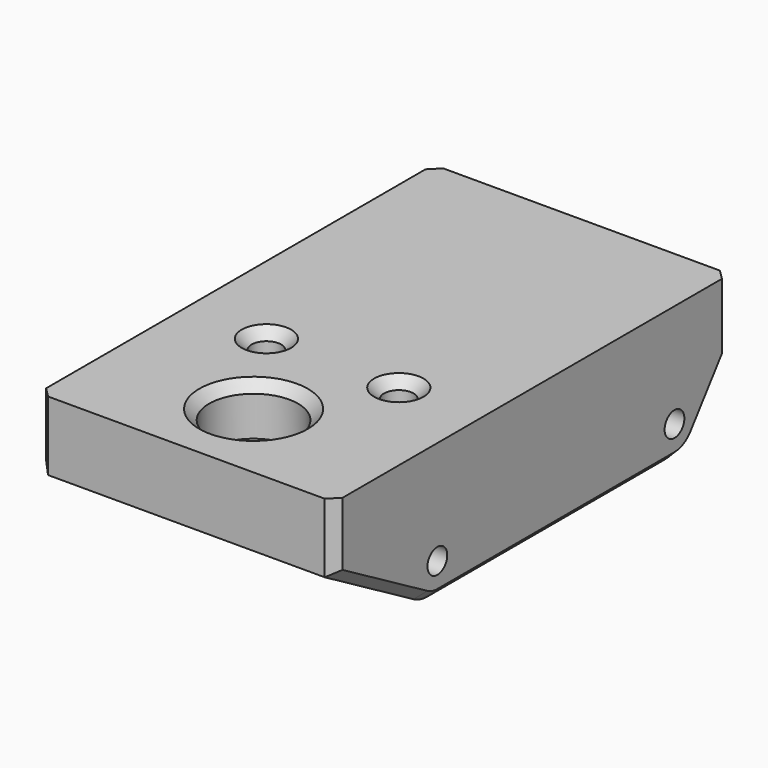
from build123d import *

# Parameters (mm, degrees)
F0_W     = 30
F0_H     = 50
F1_DEPTH = 7
F2_R     = 4.5
F3_DEPTH = 5
F4_R     = 1.5
F5_DEPTH = 7.001
F7_DEPTH = 7
F8_R     = 1.25
F9_DEPTH = 30.001
F10_SIZE = 1


with BuildPart() as f1:
    # F0 (on Top) → F1 (new body)
    with BuildSketch(Plane.XY):
        with Locations((2.6609585285, -2.2089038044)):
            Rectangle(F0_W, F0_H)
    extrude(amount=F1_DEPTH)

    # F2 (on face) → F3 (cut)
    with BuildSketch(Plane.XY.offset(7)):
        with Locations((2.6609585285, -18.7089038044)):
            Circle(F2_R)
    extrude(amount=-F3_DEPTH, mode=Mode.SUBTRACT)

    # F4 (on face) → F5 (cut, through all)
    with BuildSketch(Plane.XY.offset(7)):
        with Locations((9.3609585285, -8.7089038044)):
            Circle(F4_R)
        with Locations((-4.0390414715, -8.7089038044)):
            Circle(F4_R)
    extrude(amount=-F5_DEPTH, mode=Mode.SUBTRACT)

    # F6 (on face) → F7 (join)
    with BuildSketch(Plane(origin=(0, 0, 0), x_dir=(1, 0, 0), z_dir=(0, 0, -1))):
        Polygon((-9.8390414715, 27.2089038044), (-12.3390414715, 27.2089038044), (-12.3390414715, -22.7910961956), (-9.8390414715, -22.7910961956), (-9.8390414715, -19.8687557131), (-9.8390414715, -19.1495772451), align=None)
        Polygon((17.6609585285, 27.2089038044), (15.1609585285, 27.2089038044), (15.1609585285, -19.1495772451), (15.1609585285, -19.8687557131), (15.1609585285, -22.7910961956), (17.6609585285, -22.7910961956), align=None)
    extrude(amount=F7_DEPTH)

    # F8 (on face) → F9 (cut, through all)
    with BuildSketch(Plane(origin=(-12.3390414715, 0, 0), x_dir=(0, -1, 0), z_dir=(-1, 0, 0))):
        with BuildLine():
            ThreePointArc((-15.7910961956, -7), (-17.3563437798, -6.6304951685), (-18.5910961956, -5.6))
            Line((-18.5910961956, -5.6), (-22.7910961956, 0))
            Line((-22.7910961956, 0), (-22.7910961956, -7))
            Line((-22.7910961956, -7), (-15.7910961956, -7))
        make_face()
        with BuildLine():
            ThreePointArc((15.9661451837, -6.5268965517), (15.1188109615, -6.8796551548), (14.2089038044, -7))
            Line((14.2089038044, -7), (27.2089038044, -7))
            Line((27.2089038044, -7), (27.2089038044, 0))
            Line((27.2089038044, 0), (15.9661451837, -6.5268965517))
        make_face()
        with Locations((14.2089038044, -3.5)):
            Circle(F8_R)
        with Locations((-15.7910961956, -3.5)):
            Circle(F8_R)
    extrude(amount=-F9_DEPTH, mode=Mode.SUBTRACT)

    # F10
    f10_edges = [f1.edges().sort_by_distance(p)[0] for p in [
        (-12.339041, 22.791096, 3.5),
        (-12.339041, 20.691096, -2.8),
        (-12.339041, -27.208904, 3.5),
        (17.660959, -27.208904, 3.5),
        (17.660959, -21.587524, -3.263448),
        (17.660959, 22.791096, 3.5),
        (-1.839041, -18.708904, 7),
        (-5.539041, -8.708904, 7),
        (7.860959, -8.708904, 7),
    ]]
    chamfer(f10_edges, length=F10_SIZE)


solid = f1.part
